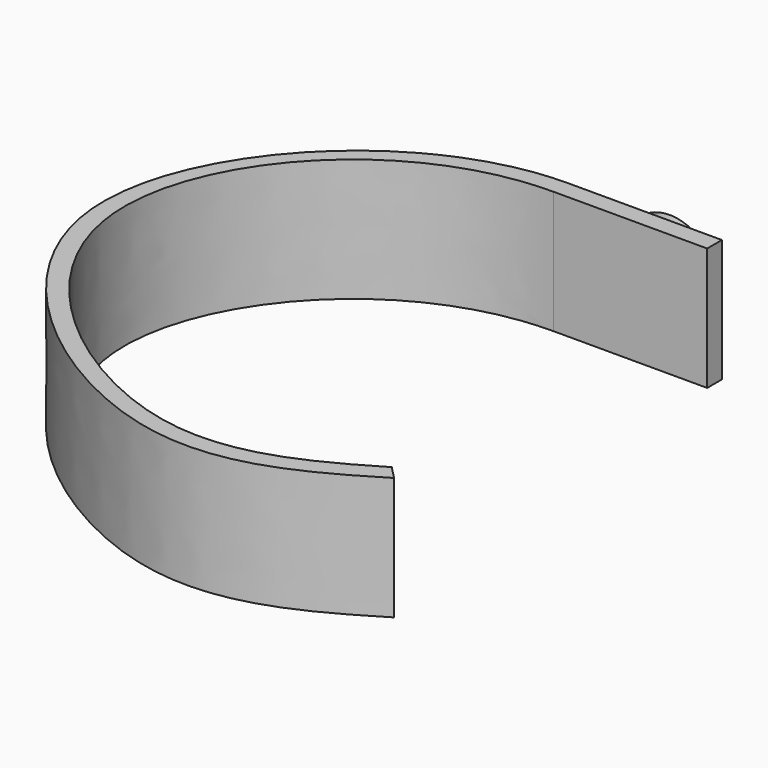
from build123d import *

# Parameters (mm, degrees)
F0_W     = 12.5
F0_H     = 1.5
F1_DEPTH = 10
F2_R     = 3.75
F3_DEPTH = 2.5


with BuildPart() as f1:
    # F0 (on Top) → F1 (new body)
    with BuildSketch(Plane.XY):
        with BuildLine():
            Line((16.693130733, -17.1243181497), (15.6460795552, -16.0502213985))
            add(Edge.make_bspline(
                [(15.6460795552, -16.0502213985), (10.9723080383, -18.8382862325), (-0.065053846, -24.716642573), (-29.8807188342, -0.9054199431), (-12, 20), (0, 20)],
                knots=[0, 0, 0, 0, 0.2741347036, 0.6370673518, 1, 1, 1, 1], degree=3))
            Line((0, 20), (-7.5694808965, 20))
            add(Edge.make_bspline(
                [(16.693130733, -17.1243181497), (11.7150097642, -20.1692427359), (0.0303697623, -26.6122584875), (-29.9535860826, -3.0039292772), (-15.9868170366, 16.6070562714), (-7.5694808965, 20)],
                knots=[0, 0, 0, 0, 0.2736168492, 0.6368084246, 0.9201107646, 0.9201107646, 0.9201107646, 0.9201107646], degree=3))
        make_face()
        with BuildLine():
            Line((-7.5694808965, 20), (0, 20))
            Line((0, 20), (0, 21.5))
            add(Edge.make_bspline(
                [(-7.5694808965, 20), (-5.1958522543, 20.9567858859), (-2.6395734099, 21.5), (0, 21.5)],
                knots=[0.9201107646, 0.9201107646, 0.9201107646, 0.9201107646, 1, 1, 1, 1], degree=3))
        make_face()
        with Locations((6.25, 20.75)):
            Rectangle(F0_W, F0_H)
    extrude(amount=F1_DEPTH)

    # F2 (on face) → F3 (join)
    with BuildSketch(Plane(origin=(0, 21.5, 0), x_dir=(-1, 0, 0), z_dir=(0, 1, 0))):
        with Locations((-6.25, 5)):
            Circle(F2_R)
    extrude(amount=F3_DEPTH)


solid = f1.part
